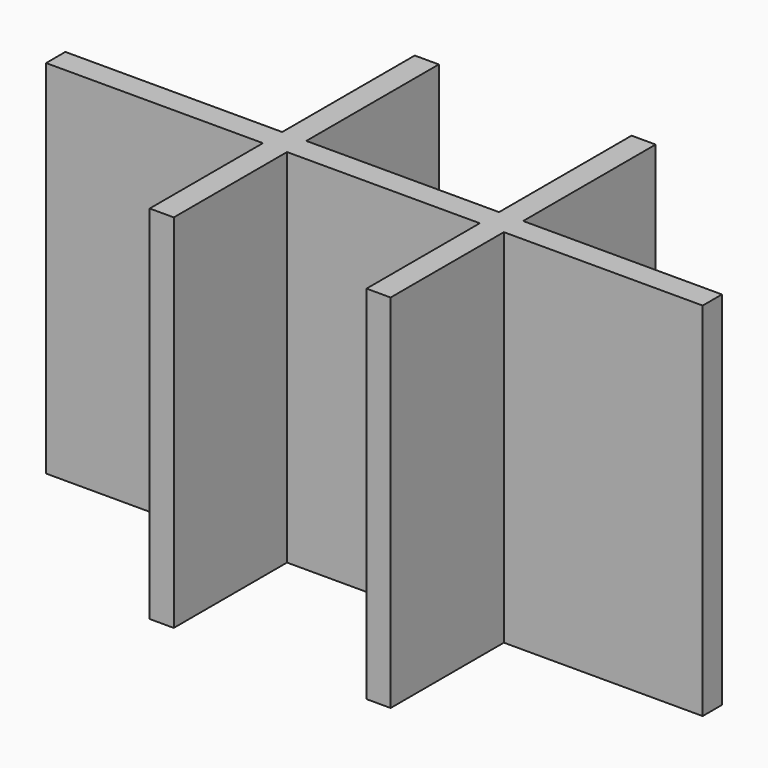
from build123d import *

# Parameters (mm, degrees)
F0_W     = 4
F0_H     = 27.5
F0_H_2   = 4
F0_W_2   = 36
F0_H_3   = 23.5
F0_W_3   = 32
F0_W_4   = 33
F1_DEPTH = 60


with BuildPart() as f1:
    # F0 (on Top) → F1 (new body)
    with BuildSketch(Plane.XY):
        with Locations((-7.8186742067, 24.8357563987)):
            Rectangle(F0_W, F0_H)
        with Locations((-7.8186742067, 9.0857563987)):
            Rectangle(F0_W, F0_H_2)
        with Locations((-27.8186742067, 9.0857563987)):
            Rectangle(F0_W_2, F0_H_2)
        with Locations((-7.8186742067, -4.6642436013)):
            Rectangle(F0_W, F0_H_3)
        with Locations((-7.8186742067, 9.0857563987)):
            Rectangle(F0_W, F0_H_2)
        with Locations((10.1813257933, 9.0857563987)):
            Rectangle(F0_W_3, F0_H_2)
        with Locations((28.1813257933, 24.8357563987)):
            Rectangle(F0_W, F0_H)
        with Locations((46.6813257933, 9.0857563987)):
            Rectangle(F0_W_4, F0_H_2)
        with Locations((28.1813257933, -4.6642436013)):
            Rectangle(F0_W, F0_H_3)
        with Locations((28.1813257933, 9.0857563987)):
            Rectangle(F0_W, F0_H_2)
    extrude(amount=F1_DEPTH)


solid = f1.part
